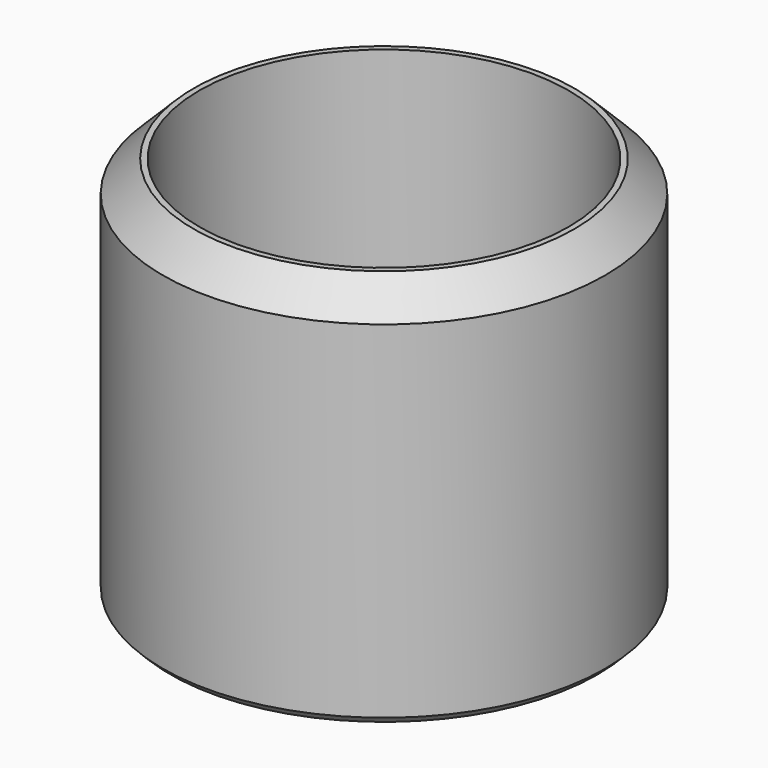
from build123d import *

# Parameters (mm, degrees)
SKETCH_R        = 28.75
PAD_DEPTH       = 50
SKETCH001_R     = 24
POCKET_DEPTH    = 50
CHAMFER_SIZE    = 4
CHAMFER001_SIZE = 1


with BuildPart() as part:
    # Sketch → Pad (new body)
    with BuildSketch(Plane.XY):
        Circle(SKETCH_R)
    extrude(amount=PAD_DEPTH)

    # Sketch001 (on Face3 of Pad) → Pocket (cut)
    with BuildSketch(Plane.XY.offset(50)):
        Circle(SKETCH001_R)
    extrude(amount=-POCKET_DEPTH, mode=Mode.SUBTRACT)

    # Chamfer
    chamfer_edges = [part.edges().sort_by_distance(p)[0] for p in [
        (-28.75, 0, 50),
    ]]
    chamfer(chamfer_edges, length=CHAMFER_SIZE)

    # Chamfer001
    chamfer001_edges = [part.edges().sort_by_distance(p)[0] for p in [
        (-28.75, 0, 0),
    ]]
    chamfer(chamfer001_edges, length=CHAMFER001_SIZE)


solid = part.part
